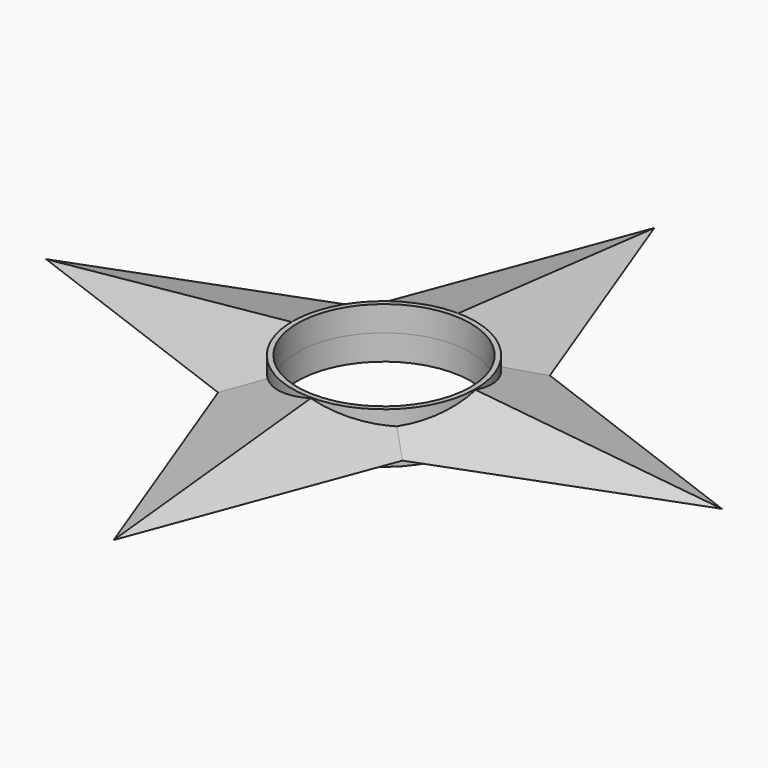
from build123d import *

# Parameters (mm, degrees)
F3_COUNT = 4
F4_R     = 10.234547
F5_DEPTH = 25
F6_R     = 10.834547
F6_R_2   = 10.234547
F7_DEPTH = 3


with BuildPart() as f2:
    # F1 (on Front) → F2 section 0
    with BuildSketch(Plane.XZ, mode=Mode.PRIVATE) as f2_s0:
        Polygon((0, 4), (-15, 0), (15, 0), align=None)
    loft([f2_s0.sketch, Vertex(0, -40, 0)])

    # F3: F2 ×4 about axis
    f3_axis = Axis((0, 0, 1.111546), (0, 0, 1))


with BuildPart() as f2_1:
    add(f2.part)
    for i in range(1, F3_COUNT):
        add(f2.part.rotate(f3_axis, i * 360 / F3_COUNT))

    # F4 (on Top) → F5 (cut)
    with BuildSketch(Plane.XY):
        Circle(F4_R)
    extrude(amount=F5_DEPTH, mode=Mode.SUBTRACT)

    # F6 (on Top) → F7 (join)
    with BuildSketch(Plane.XY):
        Circle(F6_R)
        Circle(F6_R_2, mode=Mode.SUBTRACT)
    extrude(amount=F7_DEPTH)

    # F8: F2 across plane


with BuildPart() as f2_2:
    add(f2_1.part)
    add(f2_1.part.mirror(Plane.XY))


solid = f2_2.part
